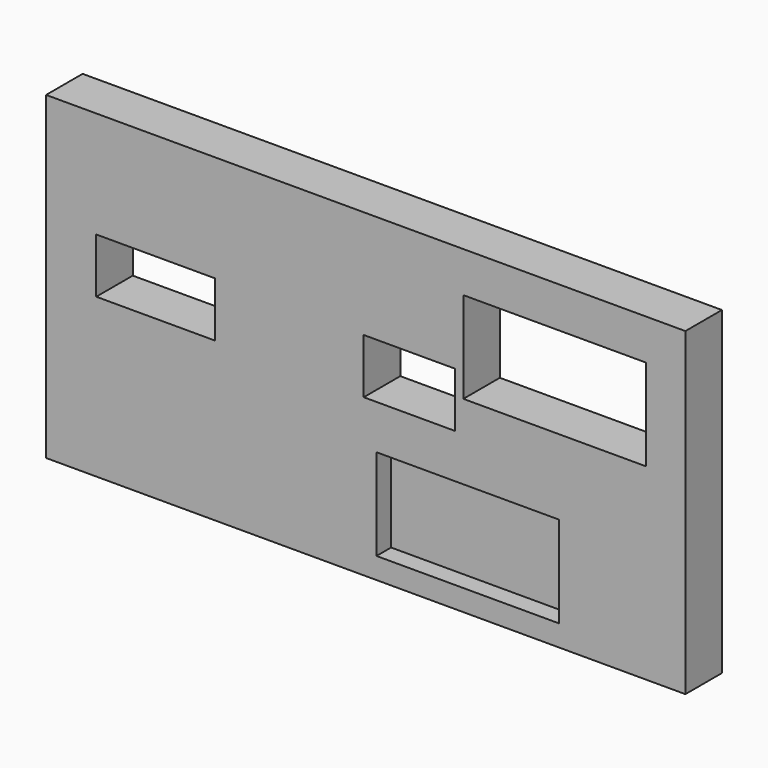
from build123d import *

# Parameters (mm, degrees)
F0_W     = 88.9
F0_H     = 44.45
F1_DEPTH = 6.35
F2_W     = 25.4
F2_H     = 12.7
F3_DEPTH = 6.351
F4_W     = 12.7
F4_H     = 7.62
F5_DEPTH = 6.351
F6_W     = 25.4
F6_H     = 12.7
F7_DEPTH = 2.54
F8_W     = 16.51
F8_H     = 7.62
F9_DEPTH = 6.351


with BuildPart() as f1:
    # F0 (on Front) → F1 (new body)
    with BuildSketch(Plane.XZ):
        with Locations((0.276533, 6.62957)):
            Rectangle(F0_W, F0_H)
    extrude(amount=F1_DEPTH)

    # F2 (on face) → F3 (cut, through all)
    with BuildSketch(Plane.XZ.offset(6.35)):
        with Locations((26.547096, 16.865057)):
            Rectangle(F2_W, F2_H)
    extrude(amount=-F3_DEPTH, mode=Mode.SUBTRACT)

    # F4 (on face) → F5 (cut, through all)
    with BuildSketch(Plane.XZ.offset(6.35)):
        with Locations((6.35, 10.021638)):
            Rectangle(F4_W, F4_H)
    extrude(amount=-F5_DEPTH, mode=Mode.SUBTRACT)

    # F6 (on face) → F7 (cut)
    with BuildSketch(Plane.XZ.offset(6.35)):
        with Locations((14.471854, -6.293975)):
            Rectangle(F6_W, F6_H)
    extrude(amount=-F7_DEPTH, mode=Mode.SUBTRACT)

    # F8 (on face) → F9 (cut, through all)
    with BuildSketch(Plane.XZ.offset(6.35)):
        with Locations((-28.943709, 10.228814)):
            Rectangle(F8_W, F8_H)
    extrude(amount=-F9_DEPTH, mode=Mode.SUBTRACT)


solid = f1.part
